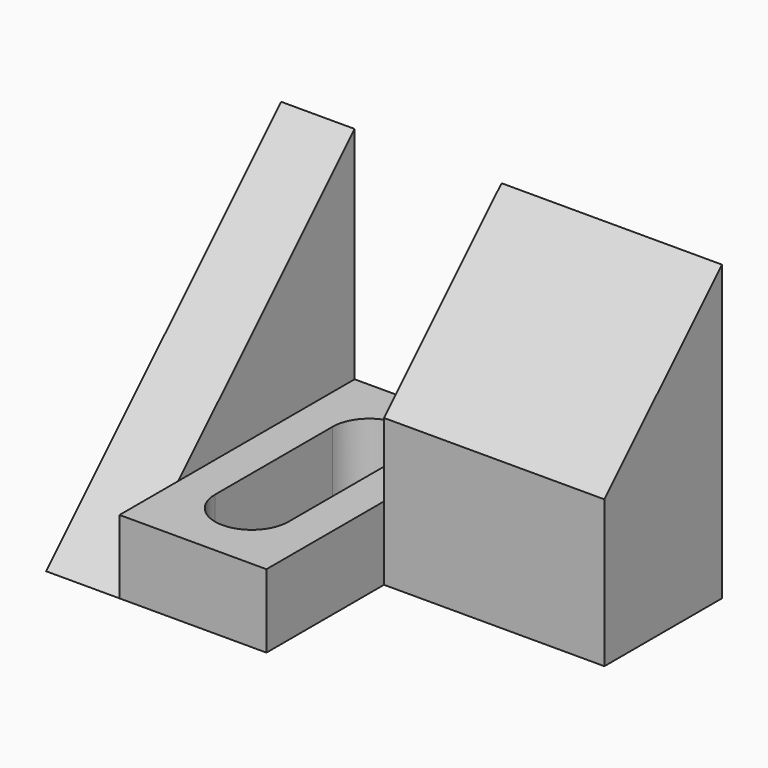
from build123d import *

# Parameters (mm, degrees)
F1_DEPTH = 25.4
F2_W     = 12.7
F2_H     = 25.4
F3_DEPTH = 19.05
F5_DEPTH = 19.05
F7_DEPTH = 6.35
F9_DEPTH = 25.4


with BuildPart() as f1:
    # F0 (on Front) → F1 (new body)
    with BuildSketch(Plane.XZ):
        Polygon((0, 25.4), (0, 0), (38.1, 0), (38.1, 25.4), (19.05, 25.4), (19.05, 6.35), (6.35, 6.35), (6.35, 25.4), align=None)
    extrude(amount=F1_DEPTH)

    # F2 (on face) → F3 (cut)
    with BuildSketch(Plane.YZ.offset(38.1)):
        with Locations((-19.05, 12.7)):
            Rectangle(F2_W, F2_H)
    extrude(amount=-F3_DEPTH, mode=Mode.SUBTRACT)

    # F4 (on face) → F5 (cut)
    with BuildSketch(Plane.YZ.offset(38.1)):
        Polygon((-12.7, 25.4), (-12.7, 12.7), (0, 25.4), align=None)
    extrude(amount=-F5_DEPTH, mode=Mode.SUBTRACT)

    # F6 (on face) → F7 (cut)
    with BuildSketch(Plane(origin=(0, 0, 0), x_dir=(0, -1, 0), z_dir=(-1, 0, 0))):
        Polygon((25.4, 25.4), (0, 25.4), (25.4, 0), align=None)
    extrude(amount=-F7_DEPTH, mode=Mode.SUBTRACT)

    # F8 (on face) → F9 (cut)
    with BuildSketch(Plane.XY.offset(6.35)):
        with BuildLine():
            ThreePointArc((12.7, -22.225), (14.945064, -21.295064), (15.875, -19.05))
            ThreePointArc((15.875, -19.05), (12.7, -15.875), (9.525, -19.05))
            ThreePointArc((9.525, -19.05), (10.454936, -21.295064), (12.7, -22.225))
        make_face()
        with BuildLine():
            ThreePointArc((9.525, -19.05), (12.7, -15.875), (15.875, -19.05))
            Line((15.875, -19.05), (15.875, -6.35))
            ThreePointArc((15.875, -6.35), (12.7, -9.525), (9.525, -6.35))
            Line((9.525, -6.35), (9.525, -19.05))
        make_face()
        with BuildLine():
            ThreePointArc((9.525, -6.35), (12.7, -9.525), (15.875, -6.35))
            ThreePointArc((15.875, -6.35), (14.945064, -4.104936), (12.7, -3.175))
            ThreePointArc((12.7, -3.175), (10.454936, -4.104936), (9.525, -6.35))
        make_face()
    extrude(amount=-F9_DEPTH, mode=Mode.SUBTRACT)


solid = f1.part
